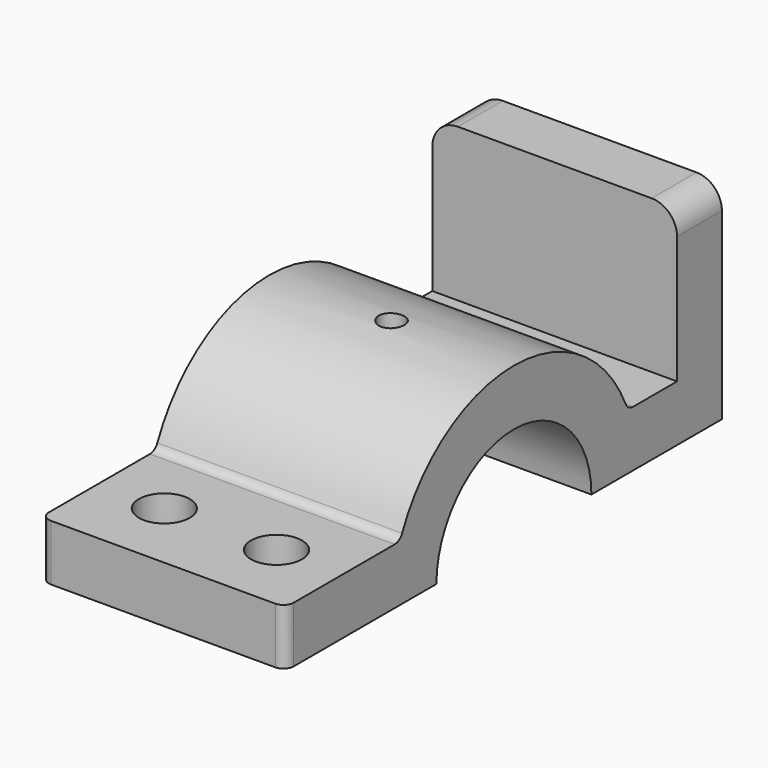
from build123d import *

# Parameters (mm, degrees)
F0_W     = 11
F0_H     = 30
F1_DEPTH = 24
F3_DEPTH = 25
F4_R     = 2.5
F4_R_2   = 5
F5_DEPTH = 41.001
F6_R     = 2
F7_R     = 5
F8_R     = 2


with BuildPart() as f1:
    # F0 (on Right) → F1 (new body, symmetric)
    with BuildSketch(Plane.YZ):
        with BuildLine():
            Line((-56, 0), (-30, 0))
            ThreePointArc((-30, 0), (-29.4730143031, 5.5983415304), (-27.9105714739, 11))
            Line((-27.9105714739, 11), (-56, 11))
            Line((-56, 11), (-56, 0))
        make_face()
        with BuildLine():
            Line((-30, 0), (-19, 0))
            ThreePointArc((-19, 0), (-18.1017503893, 5.7729223833), (-15.4919333848, 11))
            Line((-15.4919333848, 11), (-27.9105714739, 11))
            ThreePointArc((-27.9105714739, 11), (-29.4730143031, 5.5983415304), (-30, 0))
        make_face()
        with BuildLine():
            ThreePointArc((15.4919333848, 11), (18.1017503893, 5.7729223833), (19, 0))
            Line((19, 0), (30, 0))
            ThreePointArc((30, 0), (29.4730143031, 5.5983415304), (27.9105714739, 11))
            Line((27.9105714739, 11), (15.4919333848, 11))
        make_face()
        with BuildLine():
            ThreePointArc((-15.4919333848, 11), (0, 19), (15.4919333848, 11))
            Line((15.4919333848, 11), (27.9105714739, 11))
            ThreePointArc((27.9105714739, 11), (0, 30), (-27.9105714739, 11))
            Line((-27.9105714739, 11), (-15.4919333848, 11))
        make_face()
        with BuildLine():
            ThreePointArc((27.9105714739, 11), (29.4730143031, 5.5983415304), (30, 0))
            Line((30, 0), (51, 0))
            Line((51, 0), (51, 11))
            Line((51, 11), (40, 11))
            Line((40, 11), (27.9105714739, 11))
        make_face()
        with Locations((45.5, 26)):
            Rectangle(F0_W, F0_H)
    extrude(amount=F1_DEPTH, both=True)

    # F2 (on face) → F3 (cut)
    with BuildSketch(Plane(origin=(0, 51, 0), x_dir=(-1, 0, 0), z_dir=(0, 1, 0))):
        with BuildLine():
            ThreePointArc((-6.5, 25), (0, 18.5), (6.5, 25))
            ThreePointArc((6.5, 25), (0, 31.5), (-6.5, 25))
        make_face()
        with BuildLine():
            ThreePointArc((-6.5, 25), (0, 31.5), (6.5, 25))
            Line((6.5, 25), (6.5, 41))
            Line((6.5, 41), (-6.5, 41))
            Line((-6.5, 41), (-6.5, 25))
        make_face()
    extrude(amount=F3_DEPTH, mode=Mode.SUBTRACT)

    # F4 (on Top) → F5 (cut, through all)
    with BuildSketch(Plane.XY):
        Circle(F4_R)
        with Locations((-11, -41.955285737)):
            Circle(F4_R_2)
        with Locations((11, -41.955285737)):
            Circle(F4_R_2)
    extrude(amount=F5_DEPTH, mode=Mode.SUBTRACT)

    # F6
    f6_edges = [f1.edges().sort_by_distance(p)[0] for p in [
        (24, -56, 5.5),
        (-24, -56, 5.5),
    ]]
    fillet(f6_edges, radius=F6_R)

    # F7
    f7_edges = [f1.edges().sort_by_distance(p)[0] for p in [
        (24, 45.5, 41),
        (-24, 45.5, 41),
    ]]
    fillet(f7_edges, radius=F7_R)

    # F8
    f8_edges = [f1.edges().sort_by_distance(p)[0] for p in [
        (0, -27.910571, 11),
        (0, 27.910571, 11),
    ]]
    fillet(f8_edges, radius=F8_R)


solid = f1.part
